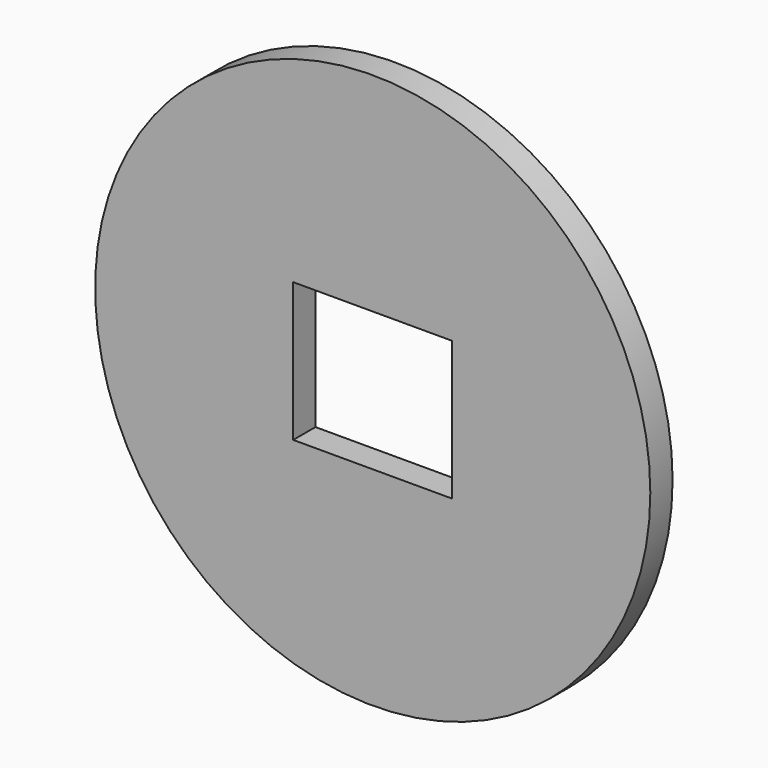
from build123d import *

# Parameters (mm, degrees)
F0_R     = 25.323694
F0_W     = 14.50463
F0_H     = 12.671472
F1_DEPTH = 2.54


with BuildPart() as f1:
    # F0 (on Front) → F1 (new body)
    with BuildSketch(Plane.XZ):
        Circle(F0_R)
        Rectangle(F0_W, F0_H, mode=Mode.SUBTRACT)
    extrude(amount=F1_DEPTH)


solid = f1.part
